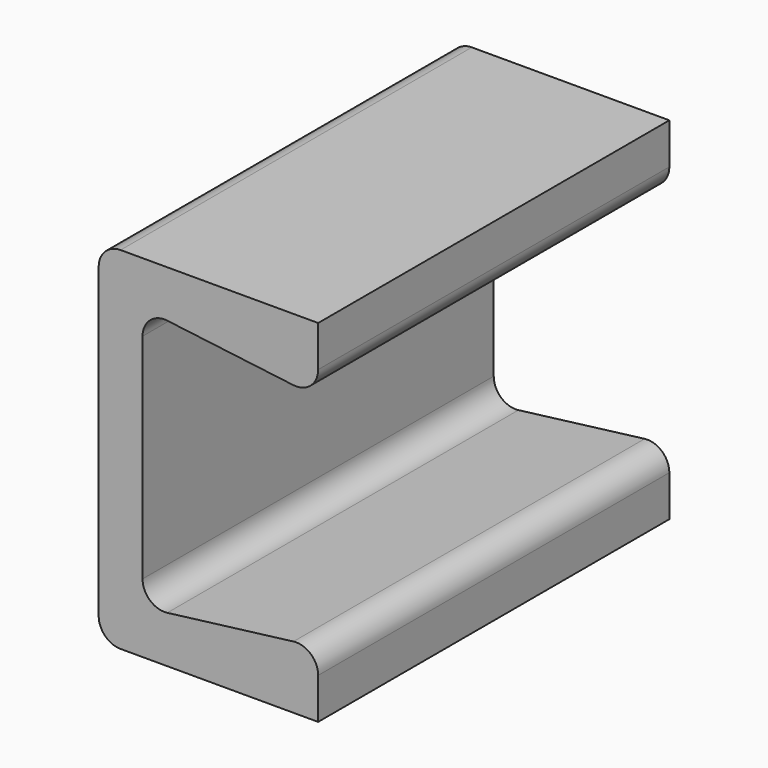
from build123d import *

# Parameters (mm, degrees)
F1_DEPTH = 20
F2_R     = 1
F3_R     = 1


with BuildPart() as f1:
    # F0 (on Front) → F1 (new body)
    with BuildSketch(Plane.XZ):
        Polygon((10, 13), (10, 16), (0, 16), (0, 0), (10, 0), (10, 3), (2, 2), (2, 14), align=None)
    extrude(amount=F1_DEPTH)

    # F2
    f2_edges = [f1.edges().sort_by_distance(p)[0] for p in [
        (10, -10, 13),
        (10, -10, 3),
        (2, -10, 14),
        (2, -10, 2),
    ]]
    fillet(f2_edges, radius=F2_R)

    # F3
    f3_edges = [f1.edges().sort_by_distance(p)[0] for p in [
        (0, -10, 0),
        (0, -10, 16),
    ]]
    fillet(f3_edges, radius=F3_R)


solid = f1.part
